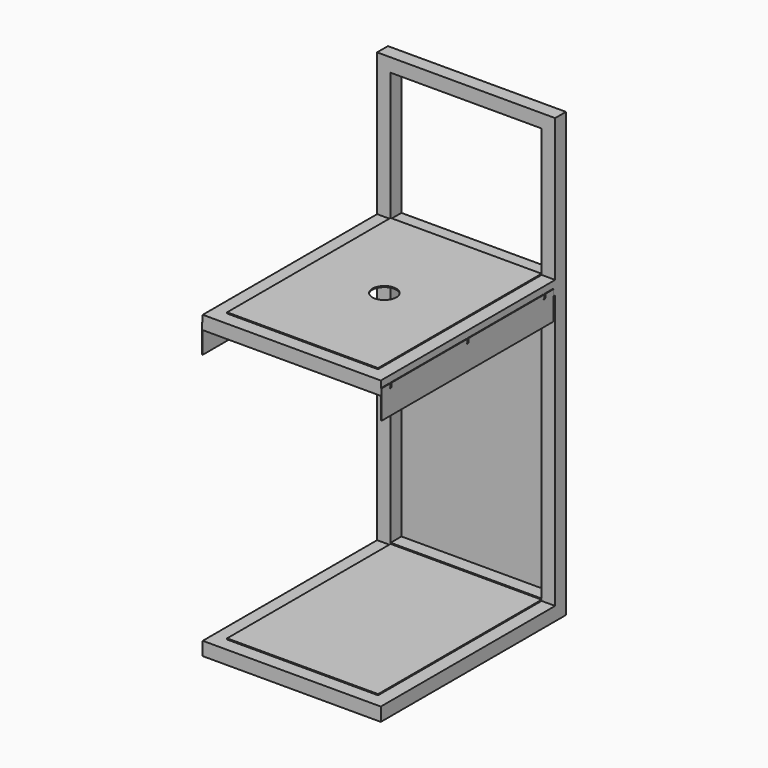
from build123d import *

# Parameters (mm, degrees)
F0_W      = 500
F0_H      = 38
F1_DEPTH  = 650
F2_W      = 38
F2_H      = 806
F3_DEPTH  = 500
F4_W      = 650
F4_H      = 38
F5_DEPTH  = 500
F6_W      = 38
F6_H      = 38
F7_DEPTH  = 400
F8_W      = 38
F8_H      = 38
F9_DEPTH  = 424
F10_W     = 424
F10_H     = 762
F11_DEPTH = 41
F12_W     = 424
F12_H     = 574
F13_DEPTH = 38
F14_W     = 424
F14_H     = 574
F15_DEPTH = 38
F16_W     = 424
F16_H     = 762
F17_DEPTH = 3
F18_W     = 424
F18_H     = 574
F18_R     = 33.5
F19_DEPTH = 3
F20_W     = 424
F20_H     = 574
F21_DEPTH = 3
F22_W     = 603.8308376074
F22_H     = 61
F23_DEPTH = 2
F24_W     = 603.83084
F24_H     = 61
F25_DEPTH = 2


with BuildPart() as f1:
    # F0 (on Front) → F1 (new body)
    with BuildSketch(Plane.XZ):
        with Locations((-250, 19)):
            Rectangle(F0_W, F0_H)
    extrude(amount=-F1_DEPTH)

    # F2 (on face) → F3 (join)
    with BuildSketch(Plane(origin=(-500, 0, 0), x_dir=(0, -1, 0), z_dir=(-1, 0, 0))):
        with Locations((-631, -403)):
            Rectangle(F2_W, F2_H)
    extrude(amount=-F3_DEPTH)

    # F4 (on face) → F5 (join)
    with BuildSketch(Plane(origin=(-500, 0, 0), x_dir=(0, -1, 0), z_dir=(-1, 0, 0))):
        with Locations((-325, -787)):
            Rectangle(F4_W, F4_H)
    extrude(amount=-F5_DEPTH)

    # F6 (on face) → F7 (join)
    with BuildSketch(Plane.XY.offset(38)):
        with Locations((-481, 631)):
            Rectangle(F6_W, F6_H)
        with Locations((-19, 631)):
            Rectangle(F6_W, F6_H)
    extrude(amount=F7_DEPTH)

    # F8 (on face) → F9 (join)
    with BuildSketch(Plane(origin=(-38, 0, 0), x_dir=(0, -1, 0), z_dir=(-1, 0, 0))):
        with Locations((-631, 419)):
            Rectangle(F8_W, F8_H)
    extrude(amount=F9_DEPTH)

    # F10 (on face) → F11 (cut)
    with BuildSketch(Plane.XZ.offset(-612)):
        with Locations((-250, -381)):
            Rectangle(F10_W, F10_H)
    extrude(amount=-F11_DEPTH, mode=Mode.SUBTRACT)

    # F12 (on face) → F13 (cut)
    with BuildSketch(Plane(origin=(0, 0, 0), x_dir=(1, 0, 0), z_dir=(0, 0, -1))):
        with Locations((-250, -325)):
            Rectangle(F12_W, F12_H)
    extrude(amount=-F13_DEPTH, mode=Mode.SUBTRACT)

    # F14 (on face) → F15 (cut)
    with BuildSketch(Plane(origin=(0, 0, -806), x_dir=(1, 0, 0), z_dir=(0, 0, -1))):
        with Locations((-250, -325)):
            Rectangle(F14_W, F14_H)
    extrude(amount=-F15_DEPTH, mode=Mode.SUBTRACT)


with BuildPart() as f17:
    # F16 (on face) → F17 (new body)
    with BuildSketch(Plane(origin=(0, 650, 0), x_dir=(-1, 0, 0), z_dir=(0, 1, 0))):
        with Locations((250, -381)):
            Rectangle(F16_W, F16_H)
    extrude(amount=F17_DEPTH)


with BuildPart() as f19:
    # F18 (on face) → F19 (new body)
    with BuildSketch(Plane.XY.offset(38)):
        with Locations((-250, 325)):
            Rectangle(F18_W, F18_H)
        with Locations((-250, 325)):
            Circle(F18_R, mode=Mode.SUBTRACT)
    extrude(amount=F19_DEPTH)


with BuildPart() as f21:
    # F20 (on face) → F21 (new body)
    with BuildSketch(Plane.XY.offset(-768)):
        with Locations((-250, 325)):
            Rectangle(F20_W, F20_H)
    extrude(amount=F21_DEPTH)


with BuildPart() as f23:
    # F22 (on face) → F23 (new body)
    with BuildSketch(Plane.YZ):
        with Locations((301.9154188037, -30.5)):
            Rectangle(F22_W, F22_H)
        with BuildLine():
            Line((28.9154188037, 19), (0, 19))
            Line((0, 19), (0, 0))
            Line((0, 0), (603.8308376074, 0))
            Line((603.8308376074, 0), (603.8308376074, 19))
            Line((603.8308376074, 19), (574.9154188037, 19))
            Line((574.9154188037, 19), (574.9154188037, 9.5))
            ThreePointArc((574.9154188037, 9.5), (571.9154188037, 6.5), (568.9154188037, 9.5))
            Line((568.9154188037, 9.5), (568.9154188037, 19))
            Line((568.9154188037, 19), (304.9154188037, 19))
            Line((304.9154188037, 19), (304.9154188037, 9.5))
            ThreePointArc((304.9154188037, 9.5), (301.9154188037, 6.5), (298.9154188037, 9.5))
            Line((298.9154188037, 9.5), (298.9154188037, 19))
            Line((298.9154188037, 19), (34.9154188037, 19))
            Line((34.9154188037, 19), (34.9154188037, 9.5))
            ThreePointArc((34.9154188037, 9.5), (31.9154188037, 6.5), (28.9154188037, 9.5))
            Line((28.9154188037, 9.5), (28.9154188037, 19))
        make_face()
    extrude(amount=F23_DEPTH)


with BuildPart() as f25:
    # F24 (on face) → F25 (new body)
    with BuildSketch(Plane(origin=(-500, 0, 0), x_dir=(0, -1, 0), z_dir=(-1, 0, 0))):
        with Locations((-301.91542, -30.5)):
            Rectangle(F24_W, F24_H)
        with BuildLine():
            Line((0, 0), (0, 19))
            Line((0, 19), (-28.91542, 19))
            Line((-28.91542, 19), (-28.91542, 9.5))
            ThreePointArc((-28.91542, 9.5), (-31.91542, 6.5), (-34.91542, 9.5))
            Line((-34.91542, 9.5), (-34.91542, 19))
            Line((-34.91542, 19), (-298.91542, 19))
            Line((-298.91542, 19), (-298.91542, 9.5))
            ThreePointArc((-298.91542, 9.5), (-301.91542, 6.5), (-304.91542, 9.5))
            Line((-304.91542, 9.5), (-304.91542, 19))
            Line((-304.91542, 19), (-568.91542, 19))
            Line((-568.91542, 19), (-568.91542, 9.5))
            ThreePointArc((-568.91542, 9.5), (-571.91542, 6.5), (-574.91542, 9.5))
            Line((-574.91542, 9.5), (-574.91542, 19))
            Line((-574.91542, 19), (-603.83084, 19))
            Line((-603.83084, 19), (-603.83084, 0))
            Line((-603.83084, 0), (0, 0))
        make_face()
    extrude(amount=F25_DEPTH)


solid = Compound([f1.part, f17.part, f19.part, f21.part, f23.part, f25.part])
